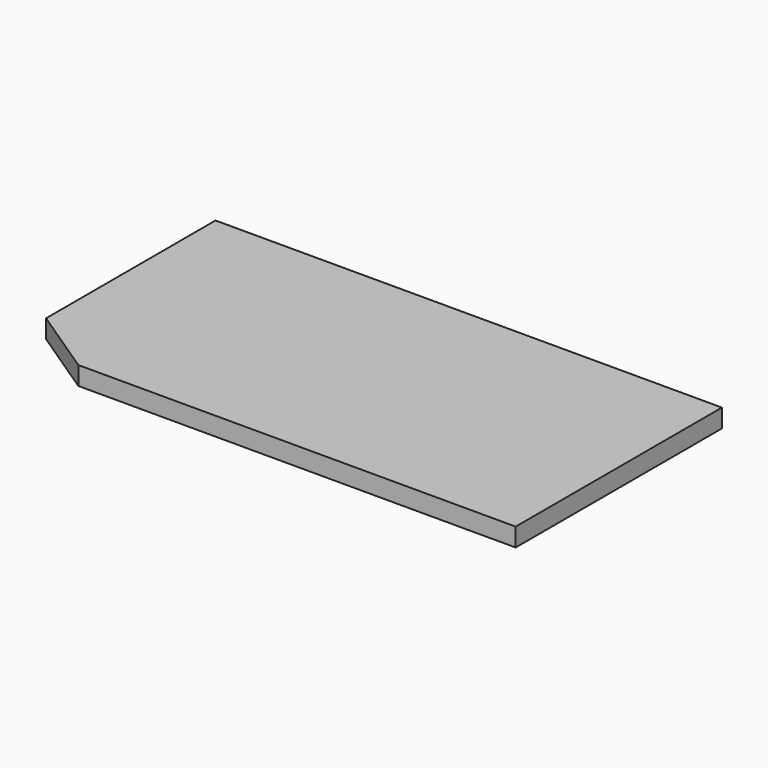
from build123d import *

# Parameters (mm, degrees)
F0_W     = 698.5
F0_H     = 355.6
F1_DEPTH = 25.4
F3_DEPTH = 25.401
F4_W     = 88.9
F4_H     = 44.45
F5_DEPTH = 3.175


with BuildPart() as f1:
    # F0 (on Top) → F1 (new body)
    with BuildSketch(Plane.XY):
        Rectangle(F0_W, F0_H)
    extrude(amount=F1_DEPTH)

    # F2 (on face) → F3 (cut, through all)
    with BuildSketch(Plane.XY.offset(25.4)):
        Polygon((-254, -177.8), (-349.25, -114.3), (-349.25, -177.8), align=None)
    extrude(amount=-F3_DEPTH, mode=Mode.SUBTRACT)

    # F4 (on face) → F5 (join)
    with BuildSketch(Plane(origin=(0, 0, 0), x_dir=(1, 0, 0), z_dir=(0, 0, -1))):
        with Locations((254, -155.575)):
            Rectangle(F4_W, F4_H)
        with Locations((-152.4, -155.575)):
            Rectangle(F4_W, F4_H)
    extrude(amount=F5_DEPTH)


solid = f1.part
